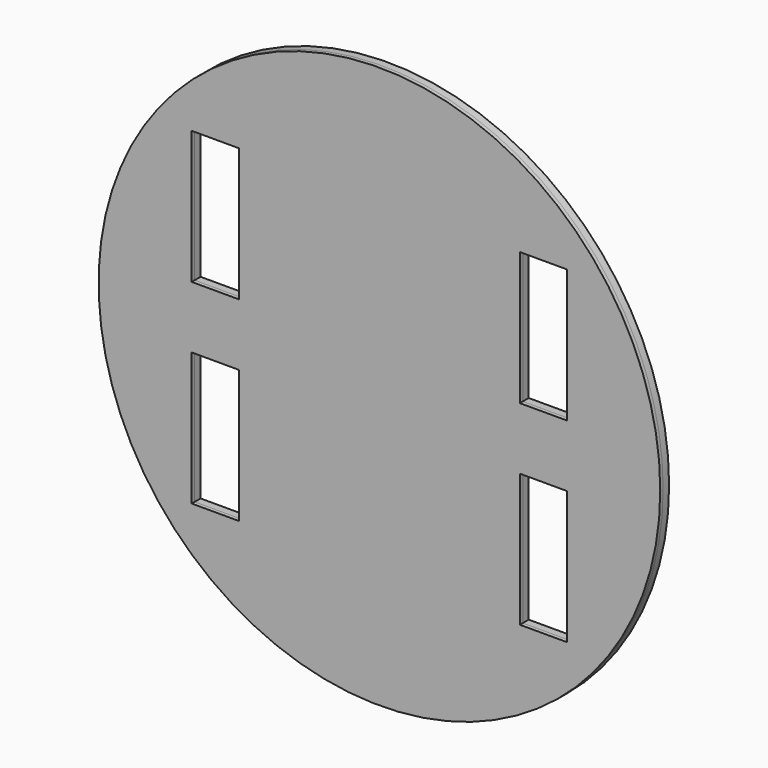
from build123d import *

# Parameters (mm, degrees)
F0_R     = 120.65
F1_DEPTH = 3.175
F2_W     = 20.32
F2_H     = 28.575
F3_DEPTH = 25.4
F4_R     = 120.65
F4_W     = 20.32
F4_H     = 57.15
F5_DEPTH = 1.5875


with BuildPart() as f1:
    # F0 (on Front) → F1 (new body)
    with BuildSketch(Plane.XZ):
        Circle(F0_R)
    extrude(amount=F1_DEPTH)

    # F2 (on face) → F3 (cut)
    with BuildSketch(Plane.XZ.offset(3.175)):
        Polygon((80.645, 41.91), (60.325, 41.91), (60.325, 13.335), (70.485, 13.335), (80.645, 13.335), align=None)
        with Locations((70.485, 56.1975)):
            Rectangle(F2_W, F2_H)
        Polygon((60.325, -13.335), (60.325, -41.91), (80.645, -41.91), (80.645, -13.335), (70.485, -13.335), align=None)
        with Locations((70.485, -56.1975)):
            Rectangle(F2_W, F2_H)
        with Locations((-70.485, -56.1975)):
            Rectangle(F2_W, F2_H)
        Polygon((-80.645, -41.91), (-60.325, -41.91), (-60.325, -13.335), (-70.485, -13.335), (-80.645, -13.335), align=None)
        Polygon((-60.325, 13.335), (-60.325, 41.91), (-80.645, 41.91), (-80.645, 13.335), (-70.485, 13.335), align=None)
        with Locations((-70.485, 56.1975)):
            Rectangle(F2_W, F2_H)
    extrude(amount=-F3_DEPTH, mode=Mode.SUBTRACT)


with BuildPart() as f5:
    # F4 (on face) → F5 (new body)
    with BuildSketch(Plane.XZ.offset(3.175)):
        Circle(F4_R)
        with Locations((-70.485, -41.91)):
            Rectangle(F4_W, F4_H, mode=Mode.SUBTRACT)
        with Locations((70.485, -41.91)):
            Rectangle(F4_W, F4_H, mode=Mode.SUBTRACT)
        with Locations((-70.485, 41.91)):
            Rectangle(F4_W, F4_H, mode=Mode.SUBTRACT)
        with Locations((70.485, 41.91)):
            Rectangle(F4_W, F4_H, mode=Mode.SUBTRACT)
    extrude(amount=F5_DEPTH)


solid = Compound([f1.part, f5.part])
